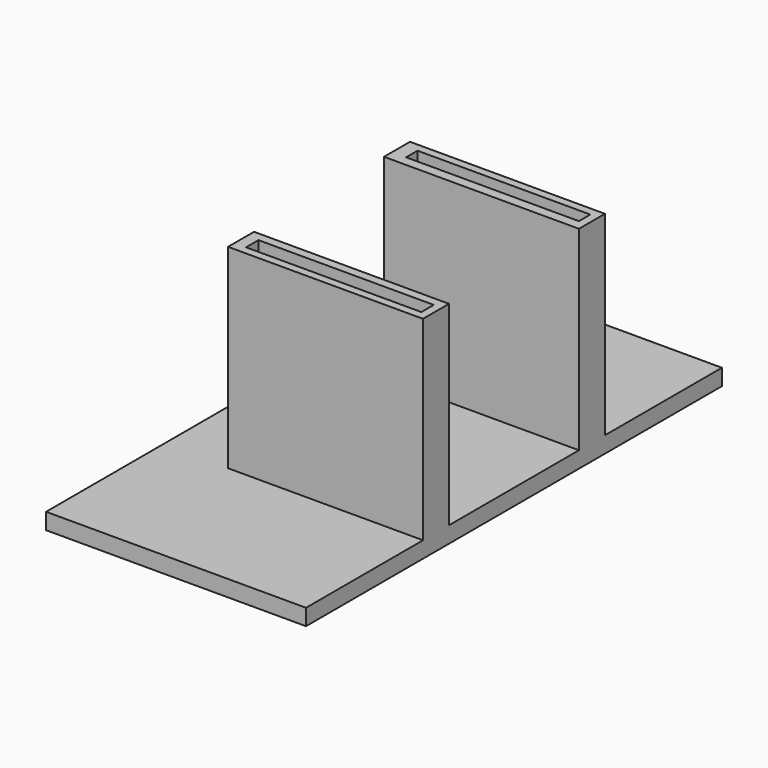
from build123d import *

# Parameters (mm, degrees)
F0_W     = 101.6
F0_H     = 203.2
F1_DEPTH = 6.35
F2_W     = 76.2
F2_H     = 12.7
F2_W_2   = 67.544904
F2_H_2   = 5.582169
F2_W_3   = 68.530646
F2_H_3   = 6.063819
F3_DEPTH = 76.2


with BuildPart() as f1:
    # F0 (on Top) → F1 (new body)
    with BuildSketch(Plane.XY):
        with Locations((50.8, -101.6)):
            Rectangle(F0_W, F0_H)
    extrude(amount=F1_DEPTH)

    # F2 (on face) → F3 (join)
    with BuildSketch(Plane.XY.offset(6.35)):
        with Locations((63.5, -63.5)):
            Rectangle(F2_W, F2_H)
        with Locations((64.652548, -63.116084)):
            Rectangle(F2_W_2, F2_H_2, mode=Mode.SUBTRACT)
        with Locations((63.5, -139.7)):
            Rectangle(F2_W, F2_H)
        with Locations((64.159677, -139.843091)):
            Rectangle(F2_W_3, F2_H_3, mode=Mode.SUBTRACT)
    extrude(amount=F3_DEPTH)


solid = f1.part
